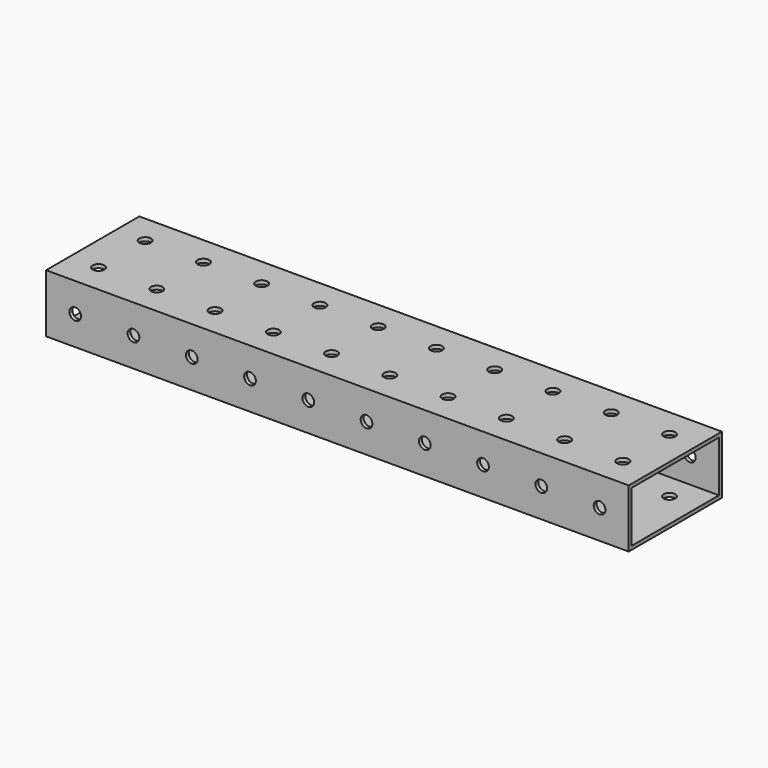
from build123d import *

# Parameters (mm, degrees)
F0_W     = 50.8
F0_H     = 25.4
F0_W_2   = 47.625
F0_H_2   = 22.225
F1_DEPTH = 254
F3_D     = 5.1054
F5_D     = 5.1054


with BuildPart() as f1:
    # F0 (on Right) → F1 (new body)
    with BuildSketch(Plane.YZ):
        Rectangle(F0_W, F0_H)
        Rectangle(F0_W_2, F0_H_2, mode=Mode.SUBTRACT)
    extrude(amount=F1_DEPTH)

    # F3 (through all)
    with Locations(Plane.XY.offset(12.7)):
        with Locations((38.1, -12.7), (63.5, 12.7), (63.5, -12.7), (88.9, 12.7), (88.9, -12.7), (114.3, 12.7), (241.3, -12.7), (215.9, -12.7), (190.5, -12.7), (165.1, -12.7), (241.3, 12.7), (215.9, 12.7), (114.3, -12.7), (190.5, 12.7), (139.7, 12.7), (139.7, -12.7), (165.1, 12.7), (12.7, 12.7), (12.7, -12.7), (38.1, 12.7)):
            Hole(F3_D / 2)

    # F5 (through all)
    with Locations(Plane(origin=(0, 25.4, 0), x_dir=(-1, 0, 0), z_dir=(0, 1, 0))):
        with Locations((-215.9, 0), (-165.1, 0), (-190.5, 0), (-139.7, 0), (-241.3, 0), (-114.3, 0), (-63.5, 0), (-88.9, 0), (-12.7, 0), (-38.1, 0)):
            Hole(F5_D / 2)


solid = f1.part
